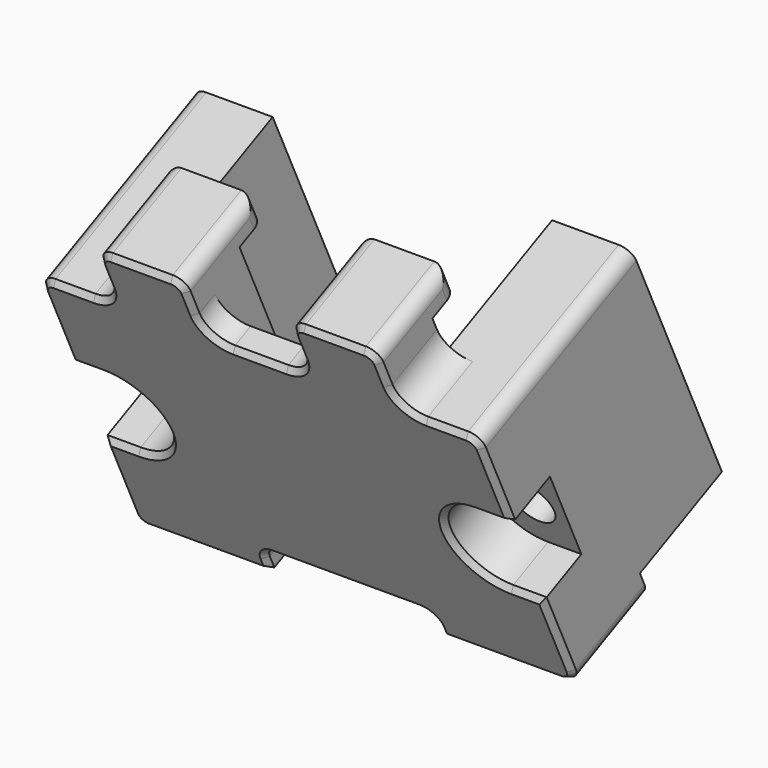
from build123d import *

# Parameters (mm, degrees)
PAD011_DEPTH                     = 20
SKETCH035_W                      = 6.5
SKETCH035_H                      = 5
PAD012_DEPTH                     = 3
SKETCH036_W                      = 6.5
SKETCH036_H                      = 7.5
PAD013_DEPTH                     = 2
SKETCH037_W                      = 10
SKETCH037_H                      = 7.5
PAD014_DEPTH                     = 2
FILLET005009_R                   = 2
FILLET005010_R                   = 1
FILLET005011_R                   = 1
SKETCH038_R                      = 1.65
POCKET018_DEPTH                  = 16.001
POCKET019_DEPTH                  = 4
CHAMFER007006_SIZE               = 0.4
BODY004004003003_PLACEMENT_ANGLE = 205


with BuildPart() as part:
    # Sketch034 → Pad011 (new body)
    with BuildSketch(Plane.XY):
        Polygon((-16.5, 0), (-10.5, 0), (-10.5, 11), (-4, 11), (-4, 14), (4, 14), (4, 11), (10.5, 11), (10.5, 0), (16.5, 0), (16.5, 16), (-16.5, 16), align=None)
    extrude(amount=PAD011_DEPTH)

    # Sketch035 (on Face13 of Pad011) → Pad012 (join)
    with BuildSketch(Plane(origin=(0, 0, 0), x_dir=(1, 0, 0), z_dir=(0, 0, -1))):
        with Locations((-7.25, -13.5)):
            Rectangle(SKETCH035_W, SKETCH035_H)
        with Locations((7.25, -13.5)):
            Rectangle(SKETCH035_W, SKETCH035_H)
    extrude(amount=PAD012_DEPTH)

    # Sketch036 (on Face26 of Pad012) → Pad013 (join)
    with BuildSketch(Plane(origin=(0, 0, -3), x_dir=(1, 0, 0), z_dir=(0, 0, -1))):
        with Locations((-7.25, -12.25)):
            Rectangle(SKETCH036_W, SKETCH036_H)
        with Locations((7.25, -12.25)):
            Rectangle(SKETCH036_W, SKETCH036_H)
    extrude(amount=PAD013_DEPTH)

    # Sketch037 (on Face5 of Pad013) → Pad014 (join)
    with BuildSketch(Plane.XY.offset(20)):
        with Locations((-11.5, 12.25)):
            Rectangle(SKETCH037_W, SKETCH037_H)
        with Locations((11.5, 12.25)):
            Rectangle(SKETCH037_W, SKETCH037_H)
    extrude(amount=PAD014_DEPTH)

    # Fillet005009
    fillet005009_edges = [part.edges().sort_by_distance(p)[0] for p in [
        (-10.5, 13.5, 0),
        (-4, 15, 0),
        (4, 15, 0),
        (10.5, 13.5, 0),
    ]]
    fillet(fillet005009_edges, radius=FILLET005009_R)

    # Fillet005010
    fillet005010_edges = [part.edges().sort_by_distance(p)[0] for p in [
        (-6.5, 13.5, 20),
        (6.5, 13.5, 20),
        (16.5, 12.25, 22),
        (-16.5, 12.25, 22),
        (6.5, 8.5, 21),
        (-6.5, 8.5, 21),
    ]]
    fillet(fillet005010_edges, radius=FILLET005010_R)

    # Fillet005011
    fillet005011_edges = [part.edges().sort_by_distance(p)[0] for p in [
        (-10.5, 12.25, -5),
        (-4, 12.25, -5),
        (4, 12.25, -5),
        (10.5, 12.25, -5),
        (-10.5, 8.5, -4),
        (-4, 8.5, -4),
        (4, 8.5, -4),
        (10.5, 8.5, -4),
        (-16.5, 8, 0),
        (16.5, 8, 0),
    ]]
    fillet(fillet005011_edges, radius=FILLET005011_R)

    # Sketch038 (on Face1 of Fillet005011) → Pocket018 (cut, through all)
    with BuildSketch(Plane(origin=(0, 16, 0), x_dir=(-1, 0, 0), z_dir=(0, 1, 0))):
        with Locations((-14, 11)):
            Circle(SKETCH038_R)
        with Locations((14, 11)):
            Circle(SKETCH038_R)
    extrude(amount=-POCKET018_DEPTH, mode=Mode.SUBTRACT)

    # Sketch039 (on Face1 of Pocket018) → Pocket019 (cut)
    with BuildSketch(Plane(origin=(0, 16, 0), x_dir=(-1, 0, 0), z_dir=(0, 1, 0))):
        with BuildLine():
            ThreePointArc((-14, 7.5), (-10.5, 11), (-14, 14.5))
            Line((-14, 14.5), (-16.5, 14.5))
            Line((-16.5, 14.5), (-16.5, 7.5))
            Line((-16.5, 7.5), (-14, 7.5))
        make_face()
        with BuildLine():
            ThreePointArc((14, 14.5), (10.5, 11), (14, 7.5))
            Line((14, 7.5), (16.5, 7.5))
            Line((16.5, 7.5), (16.5, 14.5))
            Line((16.5, 14.5), (14, 14.5))
        make_face()
    extrude(amount=-POCKET019_DEPTH, mode=Mode.SUBTRACT)

    # Chamfer007006
    chamfer007006_edges = [part.edges().sort_by_distance(p)[0] for p in [
        (16.5, 16, 4.25),
        (15.25, 16, 7.5),
        (10.5, 16, 11),
        (15.25, 16, 14.5),
        (16.5, 16, 17.75),
        (16.207107, 16, 21.707107),
        (11, 16, 22),
        (6.5, 16, 21.5),
        (6.207107, 16, 20.292893),
        (0, 16, 20),
        (-6.207107, 16, 20.292893),
        (-6.5, 16, 21.5),
        (-11, 16, 22),
        (-16.207107, 16, 21.707107),
        (-16.5, 16, 17.75),
        (-15.25, 16, 14.5),
        (-10.5, 16, 11),
        (-15.25, 16, 7.5),
        (-16.5, 16, 4.25),
        (-16.207107, 16, 0.292893),
        (-14, 16, 0),
        (-11.085786, 16, -0.585786),
        (-10.5, 16, -3),
        (-10.207107, 16, -4.707107),
        (-7.25, 16, -5),
        (-4.292893, 16, -4.707107),
        (-4, 16, -3),
        (-3.414214, 16, -0.585786),
        (0, 16, 0),
        (3.414214, 16, -0.585786),
        (4, 16, -3),
        (4.292893, 16, -4.707107),
        (7.25, 16, -5),
        (10.207107, 16, -4.707107),
        (10.5, 16, -3),
        (11.085786, 16, -0.585786),
        (14, 16, 0),
        (16.207107, 16, 0.292893),
    ]]
    chamfer(chamfer007006_edges, length=CHAMFER007006_SIZE)


with BuildPart() as part_1:
    # Body004004003003 placement: moved
    add(part.part.moved(Location((0, -5.0152284605, -3.4420173575))).rotate(Axis((0, -5.0152284605, -3.4420173575), (1, 0, 0)), BODY004004003003_PLACEMENT_ANGLE))


solid = part_1.part
